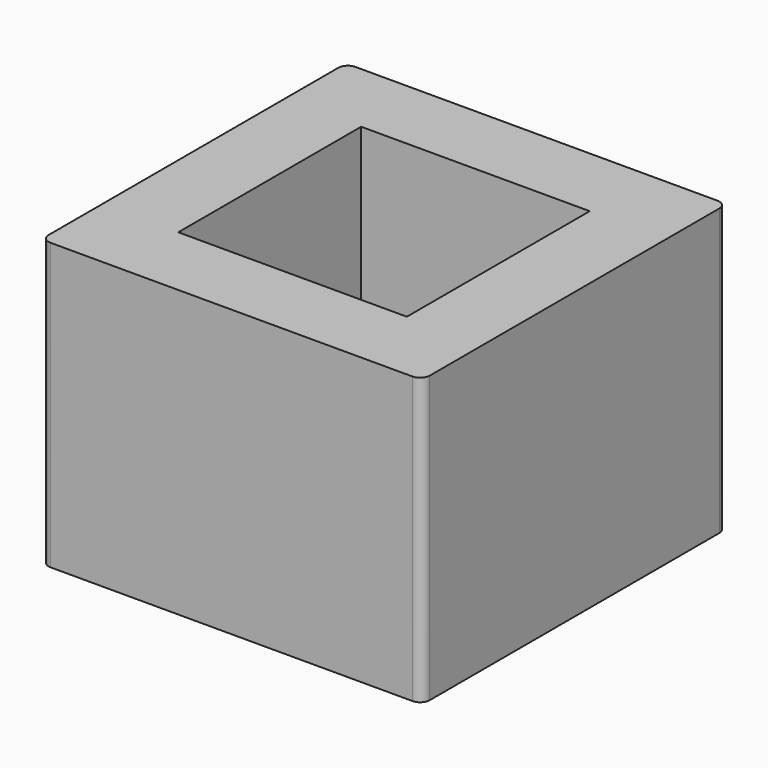
from build123d import *

# Parameters (mm, degrees)
F0_W     = 50.8
F0_H     = 50.8
F0_R     = 6.35
F1_DEPTH = 12.7
F2_W     = 50.8
F2_H     = 50.8
F2_W_2   = 30.48
F2_H_2   = 30.48
F3_DEPTH = 25.4
F4_R     = 1.27


with BuildPart() as f1:
    # F0 (on Top) → F1 (new body)
    with BuildSketch(Plane.XY):
        Rectangle(F0_W, F0_H)
        Circle(F0_R, mode=Mode.SUBTRACT)
    extrude(amount=F1_DEPTH)

    # F2 (on face) → F3 (join)
    with BuildSketch(Plane.XY.offset(12.7)):
        Rectangle(F2_W, F2_H)
        Rectangle(F2_W_2, F2_H_2, mode=Mode.SUBTRACT)
    extrude(amount=F3_DEPTH)

    # F4
    f4_edges = [f1.edges().sort_by_distance(p)[0] for p in [
        (25.4, -25.4, 19.05),
        (25.4, 25.4, 19.05),
        (-25.4, -25.4, 19.05),
        (-25.4, 25.4, 19.05),
    ]]
    fillet(f4_edges, radius=F4_R)


solid = f1.part
